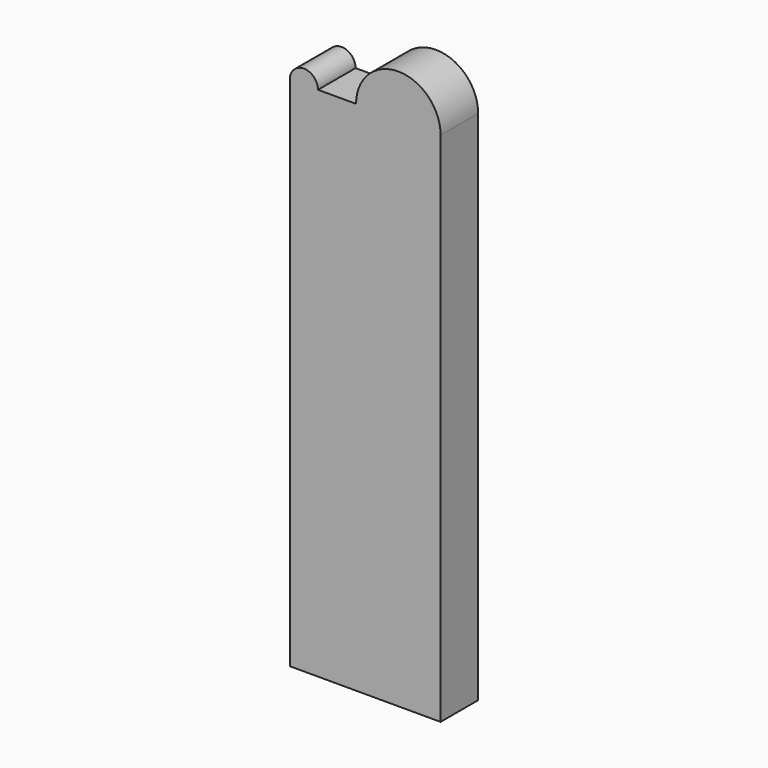
from build123d import *

# Parameters (mm, degrees)
F1_DEPTH = 10


with BuildPart() as f1:
    # F0 (on Front) → F1 (new body)
    with BuildSketch(Plane.XZ):
        with BuildLine():
            ThreePointArc((-36.543683, 48.175188), (-39.543683, 51.175188), (-42.543683, 48.175188))
            Line((-42.543683, 48.175188), (-36.543683, 48.175188))
        make_face()
        with BuildLine():
            ThreePointArc((-10.443683, 48.175188), (-19.443683, 57.175188), (-28.443683, 48.175188))
            Line((-28.443683, 48.175188), (-10.443683, 48.175188))
        make_face()
        Polygon((-36.543683, 48.175188), (-42.543683, 48.175188), (-42.543683, -61.824812), (-10.443683, -61.824812), (-10.443683, 48.175188), (-28.443683, 48.175188), align=None)
    extrude(amount=F1_DEPTH)


solid = f1.part
